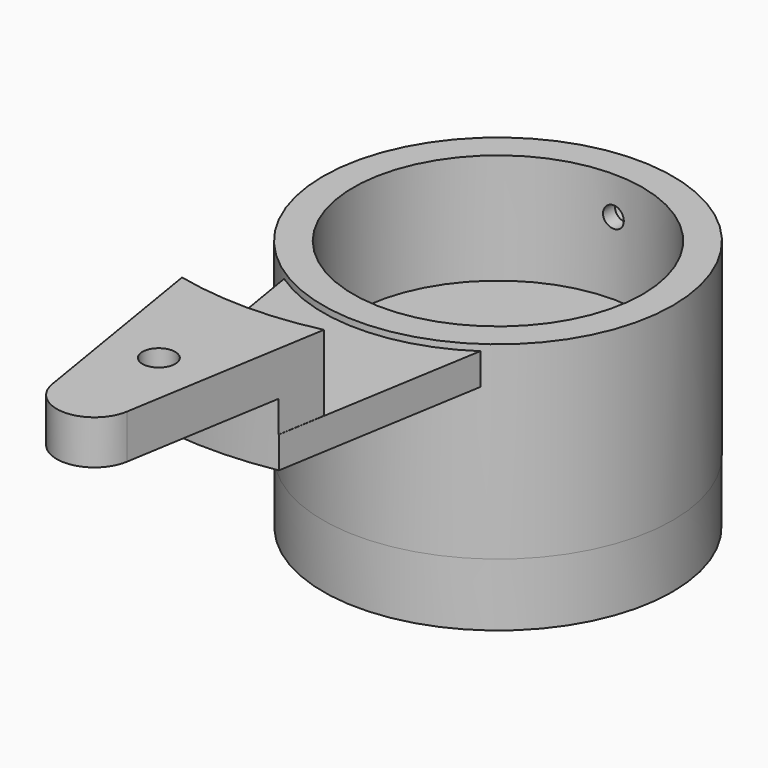
from build123d import *

# Parameters (mm, degrees)
CYLINDER016_R     = 1.65
CYLINDER016_DEPTH = 50
CYLINDER017_R     = 3.25
CYLINDER017_DEPTH = 2.5
BOX005_W          = 80
BOX005_H          = 100
BOX005_DEPTH      = 9.5
CYLINDER014_R     = 22.95
CYLINDER014_DEPTH = 27
CYLINDER015_R     = 27.75
CYLINDER015_DEPTH = 40
SKETCH013_R       = 27.75
PAD001_DEPTH      = 10
SKETCH014_W       = 24
SKETCH014_H       = 14.2
POCKET013_DEPTH   = 28
SKETCH015_R       = 8.1
POCKET014_DEPTH   = 15
POCKET015_DEPTH   = 14.4
PAD003_DEPTH      = 5
PAD004_DEPTH      = 12
POCKET017_DEPTH   = 10
SKETCH033_R       = 2.6
POCKET029_DEPTH   = 4.2
SKETCH034_W       = 108.293205
SKETCH034_H       = 87.132465
POCKET030_DEPTH   = 20
SKETCH035_R       = 27.699707
PAD005_DEPTH      = 10
SKETCH036_W       = 11.3
SKETCH036_H       = 5.3
POCKET031_DEPTH   = 33
POCKET032_DEPTH   = 5.3
SKETCH038_R       = 4.253317
POCKET033_DEPTH   = 8


with BuildPart() as cylinder016:
    # Cylinder016 → Cylinder016 (new body)
    with BuildSketch(Plane(origin=(0, 50, 20), x_dir=(1, 0, 0), z_dir=(0, -1, 0))):
        Circle(CYLINDER016_R)
    extrude(amount=CYLINDER016_DEPTH)


with BuildPart() as cylinder017:
    # Cylinder017 → Cylinder017 (new body)
    with BuildSketch(Plane(origin=(0, 27.75, 20), x_dir=(1, 0, 0), z_dir=(0, -1, 0))):
        Circle(CYLINDER017_R)
    extrude(amount=CYLINDER017_DEPTH)


with BuildPart() as obj1:
    # Box005 → Box005 (new body)
    with BuildSketch(Plane(origin=(-40, 0, -1), x_dir=(1, 0, 0), z_dir=(0, 0, 1))):
        with Locations((40, 50)):
            Rectangle(BOX005_W, BOX005_H)
    extrude(amount=BOX005_DEPTH)


with BuildPart() as fusion007:
    # Cylinder014 → Cylinder014 (new body)
    with BuildSketch(Plane.XY.offset(-1)):
        Circle(CYLINDER014_R)
    extrude(amount=CYLINDER014_DEPTH)

    # Cut011: cut obj1
    add(obj1.part, mode=Mode.SUBTRACT)

    # Fusion007: union Cylinder016, Cylinder017
    add(cylinder016.part)
    add(cylinder017.part)


with BuildPart() as obj2:
    # Cylinder015 → Cylinder015 (new body)
    with BuildSketch(Plane.XY.offset(-14)):
        Circle(CYLINDER015_R)
    extrude(amount=CYLINDER015_DEPTH)

    # Cut010: cut Fusion007
    add(fusion007.part, mode=Mode.SUBTRACT)

    # Sketch013 (on Face2 of BaseFeature003) → Pad001 (new body)
    with BuildSketch(Plane(origin=(0, 0, -14), x_dir=(1, 0, 0), z_dir=(0, 0, -1))):
        Circle(SKETCH013_R)
    extrude(amount=PAD001_DEPTH)

    # Sketch014 → Pocket013 (cut)
    with BuildSketch(Plane(origin=(0, 28, 0), x_dir=(-1, 0, 0), z_dir=(0, 1, 0))):
        with Locations((0, -12.1)):
            Rectangle(SKETCH014_W, SKETCH014_H)
    extrude(amount=-POCKET013_DEPTH, mode=Mode.SUBTRACT)

    # Sketch015 (on Face6 of Pocket013) → Pocket014 (cut)
    with BuildSketch(Plane(origin=(0, 0, -24), x_dir=(1, 0, 0), z_dir=(0, 0, -1))):
        Circle(SKETCH015_R)
    extrude(amount=-POCKET014_DEPTH, mode=Mode.SUBTRACT)

    # Sketch016 (on Face6 of Pocket014) → Pocket015 (cut)
    with BuildSketch(Plane(origin=(0, 0, -19.3), x_dir=(1, 0, 0), z_dir=(0, 0, -1))):
        Polygon((0, -14.036056), (12.155581, -7.018028), (12.155581, 7.018028), (0, 14.036056), (-12.155581, 7.018028), (-12.155581, -7.018028), align=None)
    extrude(amount=-POCKET015_DEPTH, mode=Mode.SUBTRACT)

    # Sketch019 (on Face8 of Pocket015) → Pad003 (join)
    with BuildSketch(Plane.XY.offset(25)):
        with BuildLine():
            ThreePointArc((-15.553331, -22.846971), (0.028426, -27.638548), (15.600294, -22.814929))
            Line((15.600294, -22.814929), (5.918583, -80.985076))
            ThreePointArc((-5.919268, -80.980951), (-0.002091, -86), (5.918583, -80.985076))
            Line((-15.553331, -22.846971), (-5.919268, -80.980951))
        make_face()
    extrude(amount=-PAD003_DEPTH)

    # Sketch031 (on Face12 of Pad003) → Pad004 (join)
    with BuildSketch(Plane.XY.offset(25)):
        with BuildLine():
            ThreePointArc((-5.898869, -81.096969), (0.071542, -85.999573), (5.92335, -80.955994))
            Line((11.272496, -48.593121), (5.92335, -80.955994))
            ThreePointArc((-11.235042, -48.601794), (0.019223, -49.883466), (11.272496, -48.593121))
            Line((-11.235042, -48.601794), (-5.898869, -81.096969))
        make_face()
    extrude(amount=PAD004_DEPTH)

    # Sketch032 (on Face10 of Pad004) → Pocket017 (cut)
    with BuildSketch(Plane(origin=(0, 0, 20), x_dir=(1, 0, 0), z_dir=(0, 0, -1))):
        with BuildLine():
            ThreePointArc((17.426701, 54.194258), (-0.181494, 56.926923), (-17.771906, 54.082038))
            Line((-17.771906, 54.082038), (-17.771906, 91.276634))
            Line((17.426701, 91.276634), (-17.771906, 91.276634))
            Line((17.426701, 54.194258), (17.426701, 91.276634))
        make_face()
    extrude(amount=-POCKET017_DEPTH, mode=Mode.SUBTRACT)

    # Sketch033 (on Face33 of Pocket017) → Pocket029 (cut)
    with BuildSketch(Plane.XY.offset(37)):
        with Locations((0, -67.25)):
            Circle(SKETCH033_R)
    extrude(amount=-POCKET029_DEPTH, mode=Mode.SUBTRACT)

    # Sketch034 (on Face6 of Pocket029) → Pocket030 (cut)
    with BuildSketch(Plane(origin=(0, 0, -24), x_dir=(1, 0, 0), z_dir=(0, 0, -1))):
        with Locations((-3.019794, 5.274049)):
            Rectangle(SKETCH034_W, SKETCH034_H)
    extrude(amount=-POCKET030_DEPTH, mode=Mode.SUBTRACT)

    # Sketch035 (on Face2 of Pocket030) → Pad005 (join)
    with BuildSketch(Plane(origin=(0, 0, -4), x_dir=(1, 0, 0), z_dir=(0, 0, -1))):
        Circle(SKETCH035_R)
    extrude(amount=PAD005_DEPTH)

    # Sketch036 → Pocket031 (cut)
    with BuildSketch(Plane.XZ.offset(-33)):
        with Locations((0, -8.627069)):
            Rectangle(SKETCH036_W, SKETCH036_H)
    extrude(amount=POCKET031_DEPTH, mode=Mode.SUBTRACT)

    # Sketch037 → Pocket032 (cut)
    with BuildSketch(Plane.XY.offset(-6)):
        Polygon((5.65, -3.262029), (5.65, 3.262029), (0, 6.524058), (-5.65, 3.262029), (-5.65, -3.262029), (0, -6.524058), align=None)
    extrude(amount=-POCKET032_DEPTH, mode=Mode.SUBTRACT)

    # Sketch038 (on Face16 of Pocket032) → Pocket033 (cut)
    with BuildSketch(Plane(origin=(0, 0, -14), x_dir=(1, 0, 0), z_dir=(0, 0, -1))):
        Circle(SKETCH038_R)
    extrude(amount=-POCKET033_DEPTH, mode=Mode.SUBTRACT)


with BuildPart() as obj2_1:
    # Body003 placement: moved
    add(obj2.part.moved(Location((0, 0, -67.7))))


solid = obj2_1.part
